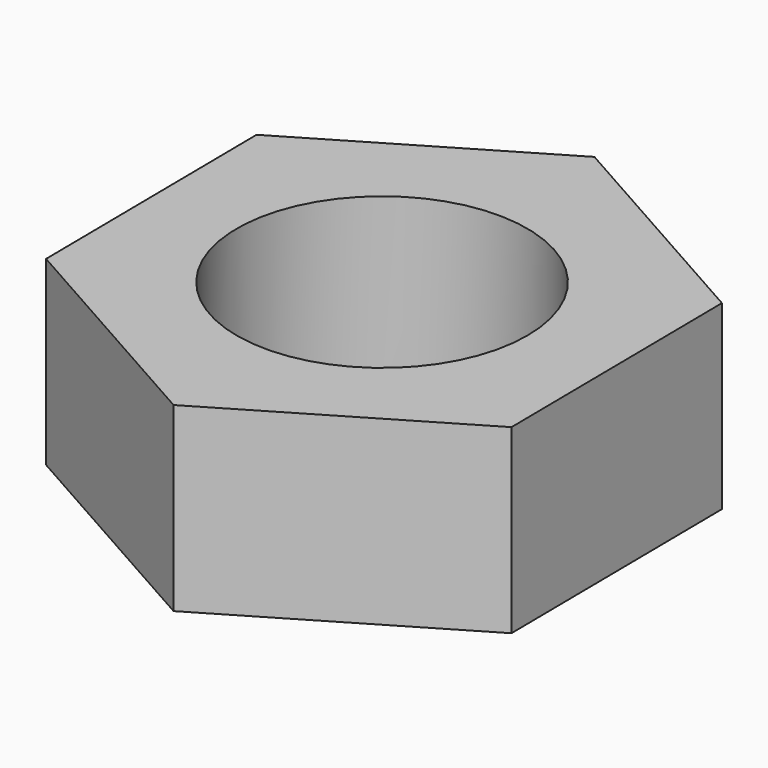
from build123d import *

# Parameters (mm, degrees)
SKETCH_R  = 4
PAD_DEPTH = 5


with BuildPart() as part:
    # Sketch → Pad (new body)
    with BuildSketch(Plane.XY):
        Polygon((0.07611, -7.277874), (6.398694, -3.539644), (6.322584, 3.804989), (-0.07611, 7.411392), (-6.398694, 3.673162), (-6.322584, -3.671471), align=None)
        Circle(SKETCH_R, mode=Mode.SUBTRACT)
    extrude(amount=PAD_DEPTH)


solid = part.part
